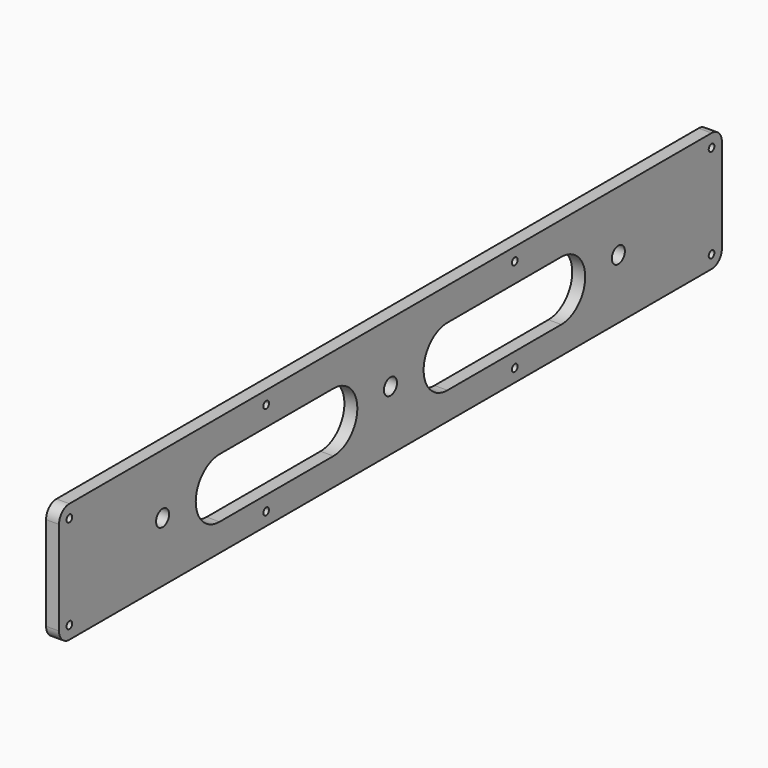
from build123d import *

# Parameters (mm, degrees)
F0_R     = 1.7399
F0_R_2   = 4
F1_DEPTH = 6.35


with BuildPart() as f1:
    # F0 (on Right) → F1 (new body)
    with BuildSketch(Plane.YZ):
        with BuildLine():
            ThreePointArc((-203.2, -23.014367), (-201.340128, -27.504495), (-196.85, -29.364367))
            Line((-196.85, -29.364367), (-76.2, -29.364367))
            Line((-76.2, -29.364367), (196.85, -29.364367))
            ThreePointArc((196.85, -29.364367), (201.340128, -27.504495), (203.2, -23.014367))
            Line((203.2, -23.014367), (203.2, 23.014367))
            ThreePointArc((203.2, 23.014367), (201.340128, 27.504495), (196.85, 29.364367))
            Line((196.85, 29.364367), (-76.2, 29.364367))
            Line((-76.2, 29.364367), (-196.85, 29.364367))
            ThreePointArc((-196.85, 29.364367), (-201.340128, 27.504495), (-203.2, 23.014367))
            Line((-203.2, 23.014367), (-203.2, -23.014367))
        make_face()
        with Locations((-196.85, -23.014367)):
            Circle(F0_R, mode=Mode.SUBTRACT)
        with BuildLine():
            ThreePointArc((-74.4601, -23.014367), (-74.969705, -24.244662), (-76.2, -24.754267))
            ThreePointArc((-76.2, -24.754267), (-77.430295, -21.784071), (-74.4601, -23.014367))
        make_face(mode=Mode.SUBTRACT)
        with Locations((-139.7, 0)):
            Circle(F0_R_2, mode=Mode.SUBTRACT)
        with BuildLine():
            Line((-34.925, -15.875), (-104.775, -15.875))
            ThreePointArc((-104.775, -15.875), (-119.38, -1.27), (-104.775, 13.335))
            Line((-104.775, 13.335), (-34.925, 13.335))
            ThreePointArc((-34.925, 13.335), (-20.32, -1.27), (-34.925, -15.875))
        make_face(mode=Mode.SUBTRACT)
        Circle(F0_R_2, mode=Mode.SUBTRACT)
        with Locations((76.2, -23.014367)):
            Circle(F0_R, mode=Mode.SUBTRACT)
        with Locations((196.85, -23.014367)):
            Circle(F0_R, mode=Mode.SUBTRACT)
        with BuildLine():
            Line((104.775, -15.875), (34.925, -15.875))
            ThreePointArc((34.925, -15.875), (20.32, -1.27), (34.925, 13.335))
            Line((34.925, 13.335), (104.775, 13.335))
            ThreePointArc((104.775, 13.335), (119.38, -1.27), (104.775, -15.875))
        make_face(mode=Mode.SUBTRACT)
        with Locations((139.7, 0)):
            Circle(F0_R_2, mode=Mode.SUBTRACT)
        with Locations((-196.85, 23.014367)):
            Circle(F0_R, mode=Mode.SUBTRACT)
        with BuildLine():
            ThreePointArc((-74.4601, 23.014367), (-77.430295, 21.784071), (-76.2, 24.754267))
            ThreePointArc((-76.2, 24.754267), (-74.969705, 24.244662), (-74.4601, 23.014367))
        make_face(mode=Mode.SUBTRACT)
        with Locations((76.2, 23.014367)):
            Circle(F0_R, mode=Mode.SUBTRACT)
        with Locations((196.85, 23.014367)):
            Circle(F0_R, mode=Mode.SUBTRACT)
    extrude(amount=F1_DEPTH)


solid = f1.part
